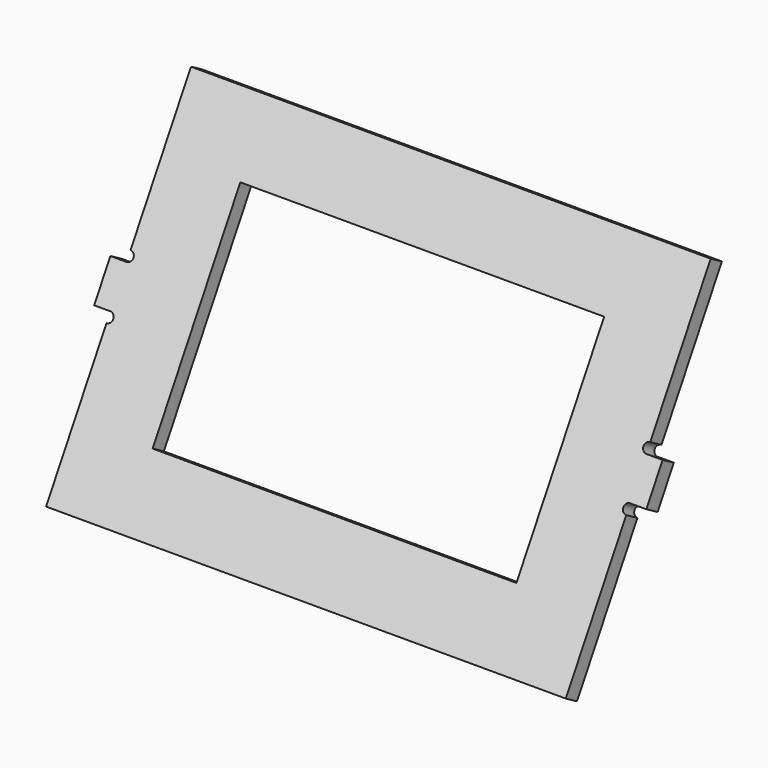
from build123d import *

# Parameters (mm, degrees)
F2_W     = 224
F2_H     = 135
F3_DEPTH = 10


with BuildPart() as f3:
    # F2 (on face) → F3 (new body)
    with BuildSketch(Plane(origin=(0, 0, 0), x_dir=(-1, 0, 0), z_dir=(0, 0.866025, -0.5))):
        with BuildLine():
            Line((-112, 188.748146), (-272, 188.748146))
            Line((-272, 188.748146), (-272, 95.748146))
            ThreePointArc((-272, 95.748146), (-269, 92.748146), (-272, 89.748146))
            Line((-272, 89.748146), (-282, 89.748146))
            Line((-282, 89.748146), (-282, 64.748146))
            Line((-282, 64.748146), (-272, 64.748146))
            ThreePointArc((-272, 64.748146), (-269, 61.748146), (-272, 58.748146))
            Line((-272, 58.748146), (-272, -34.251854))
            Line((-272, -34.251854), (-112, -34.251854))
            Line((-112, -34.251854), (48, -34.251854))
            Line((48, -34.251854), (48, 58.748146))
            ThreePointArc((48, 58.748146), (45, 61.748146), (48, 64.748146))
            Line((48, 64.748146), (58, 64.748146))
            Line((58, 64.748146), (58, 89.748146))
            Line((58, 89.748146), (48, 89.748146))
            ThreePointArc((48, 89.748146), (45, 92.748146), (48, 95.748146))
            Line((48, 95.748146), (48, 188.748146))
            Line((48, 188.748146), (-112, 188.748146))
        make_face()
        with Locations((-112, 77.248146)):
            Rectangle(F2_W, F2_H, mode=Mode.SUBTRACT)
    extrude(amount=F3_DEPTH)


solid = f3.part
